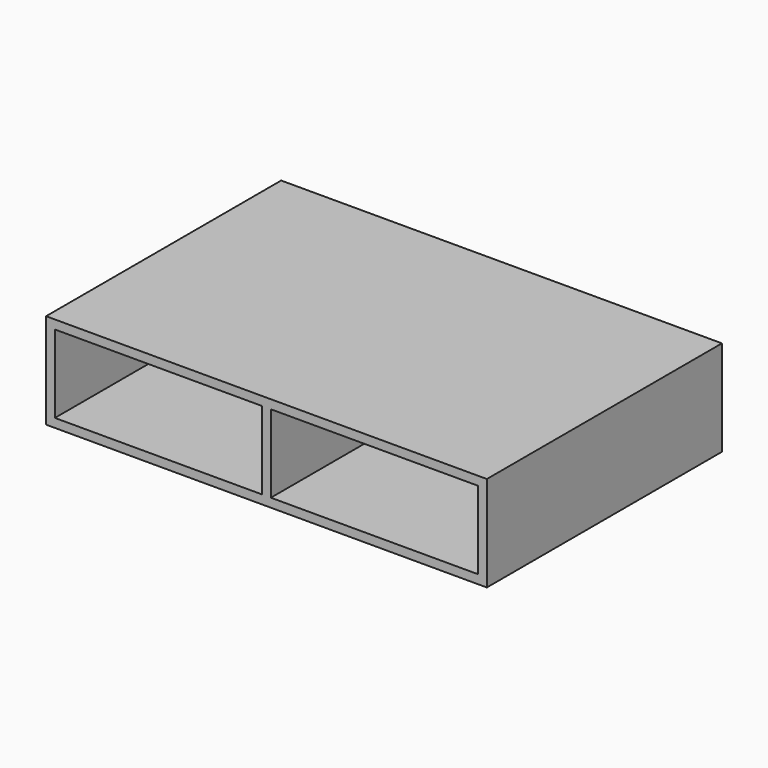
from build123d import *

# Parameters (mm, degrees)
F0_W     = 600
F0_H     = 130
F1_DEPTH = 400
F2_T     = -12
F3_W     = 12
F3_H     = 106
F4_DEPTH = 400


with BuildPart() as f1:
    # F0 (on Front) → F1 (new body)
    with BuildSketch(Plane.XZ):
        Rectangle(F0_W, F0_H)
    extrude(amount=-F1_DEPTH)

    # F2
    f2_openings = [f1.faces().sort_by_distance(p)[0] for p in [
        (0, 0, 0),
    ]]
    offset(amount=F2_T, openings=f2_openings)

    # F3 (on face) → F4 (join)
    with BuildSketch(Plane.XZ):
        Rectangle(F3_W, F3_H)
    extrude(amount=-F4_DEPTH)


solid = f1.part
